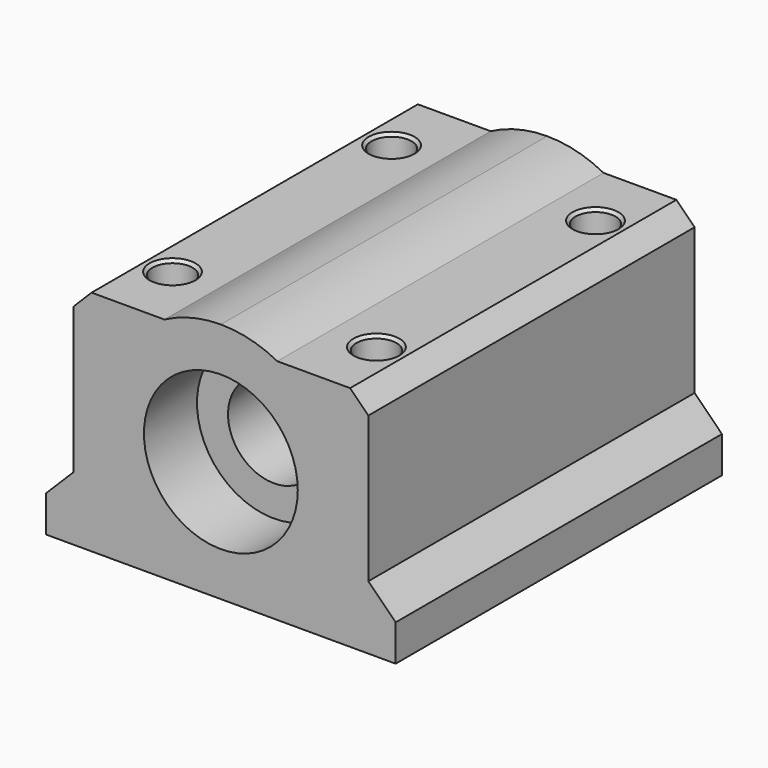
from build123d import *

# Parameters (mm, degrees)
F0_W     = 30.48
F0_H     = 35.56
F0_R     = 1.75
F1_DEPTH = 21.082
F2_R     = 4
F3_DEPTH = 35.56
F4_SIZE  = 1.5875
F5_SIZE  = 0.254
F6_R     = 6.706248
F7_DEPTH = 5.779999
F8_R     = 6.706248
F9_DEPTH = 5.779999


with BuildPart() as f1:
    # F0 (on Top) → F1 (new body)
    with BuildSketch(Plane.XY):
        with Locations((15.24, -17.78)):
            Rectangle(F0_W, F0_H)
        with Locations((6.35, -29.718)):
            Circle(F0_R, mode=Mode.SUBTRACT)
        with Locations((24.13, -29.718)):
            Circle(F0_R, mode=Mode.SUBTRACT)
        with Locations((6.35, -5.842)):
            Circle(F0_R, mode=Mode.SUBTRACT)
        with Locations((24.13, -5.842)):
            Circle(F0_R, mode=Mode.SUBTRACT)
    extrude(amount=F1_DEPTH)

    # F2 (on face) → F3 (cut, through all)
    with BuildSketch(Plane.XZ.offset(35.56)):
        with Locations((15.24, 10.541)):
            Circle(F2_R)
        with BuildLine():
            ThreePointArc((10.31875, 19.862694), (12.704975, 20.772634), (15.24, 21.082))
            Line((15.24, 21.082), (0, 21.082))
            Line((0, 21.082), (0, 3.175))
            Line((0, 3.175), (2.38125, 5.55625))
            Line((2.38125, 5.55625), (2.38125, 19.862694))
            Line((2.38125, 19.862694), (10.31875, 19.862694))
        make_face()
        with BuildLine():
            ThreePointArc((15.24, 21.082), (17.775025, 20.772634), (20.16125, 19.862694))
            Line((20.16125, 19.862694), (28.09875, 19.862694))
            Line((28.09875, 19.862694), (28.09875, 5.55625))
            Line((28.09875, 5.55625), (30.48, 3.175))
            Line((30.48, 3.175), (30.48, 21.082))
            Line((30.48, 21.082), (15.24, 21.082))
        make_face()
    extrude(amount=-F3_DEPTH, mode=Mode.SUBTRACT)

    # F4
    f4_edges = [f1.edges().sort_by_distance(p)[0] for p in [
        (28.09875, -17.78, 19.862694),
        (2.38125, -17.78, 19.862694),
    ]]
    chamfer(f4_edges, length=F4_SIZE)

    # F5
    f5_edges = [f1.edges().sort_by_distance(p)[0] for p in [
        (22.38, -29.718, 19.862694),
        (22.38, -5.842, 19.862694),
        (4.6, -5.842, 19.862694),
        (4.6, -29.718, 19.862694),
    ]]
    chamfer(f5_edges, length=F5_SIZE)

    # F6 (on face) → F7 (cut)
    with BuildSketch(Plane.XZ.offset(35.56)):
        with Locations((15.24, 10.541)):
            Circle(F6_R)
    extrude(amount=-F7_DEPTH, mode=Mode.SUBTRACT)

    # F8 (on face) → F9 (cut)
    with BuildSketch(Plane(origin=(0, 0, 0), x_dir=(-1, 0, 0), z_dir=(0, 1, 0))):
        with Locations((-15.24, 10.541)):
            Circle(F8_R)
    extrude(amount=-F9_DEPTH, mode=Mode.SUBTRACT)


solid = f1.part
